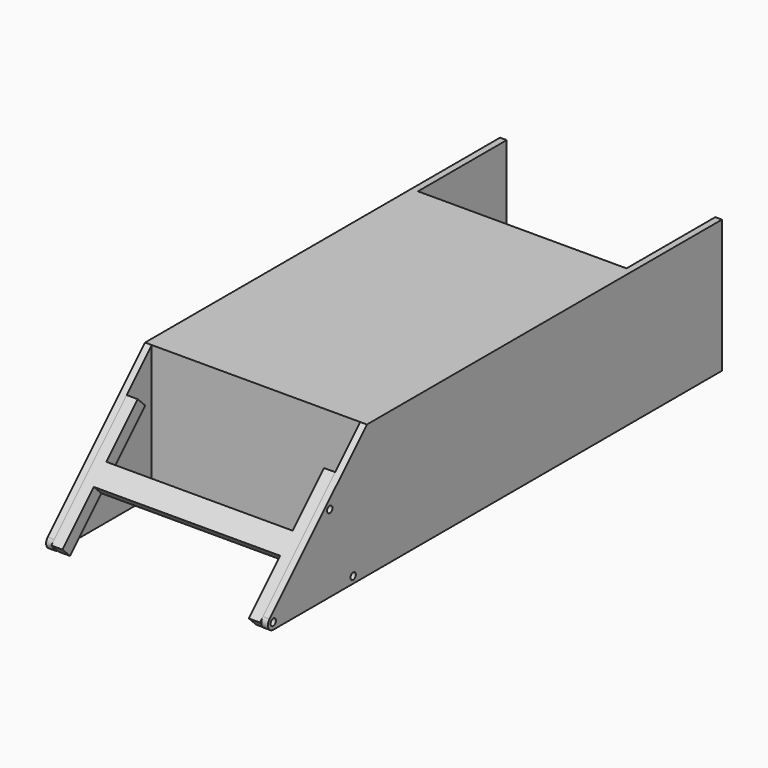
from build123d import *

# Parameters (mm, degrees)
F0_W     = 100
F0_H     = 60
F1_DEPTH = 75
F3_DEPTH = 3
F5_D     = 3
F6_W     = 84
F6_H     = 9.9999939085
F7_DEPTH = 6
F8_W     = 50
F8_H     = 60
F9_DEPTH = 3


with BuildPart() as f1:
    # F0 (on Front) → F1 (new body, symmetric)
    with BuildSketch(Plane.XZ):
        Rectangle(F0_W, F0_H)
    extrude(amount=F1_DEPTH, both=True)

    # F2 (on face) → F3 (join)
    with BuildSketch(Plane.YZ.offset(50)):
        with BuildLine():
            Line((-75, -30), (-75, 30))
            Line((-75, 30), (-129.8786796564, -24.8786796564))
            ThreePointArc((-129.8786796564, -24.8786796564), (-130.5289979104, -28.1480502971), (-127.7573593129, -30))
            Line((-127.7573593129, -30), (-75, -30))
        make_face()
    extrude(amount=-F3_DEPTH)

    # F4: F1 across plane


with BuildPart() as f1_1:
    add(f1.part)
    add(f1.part.mirror(Plane.YZ))

    # F5 (through all)
    with Locations(Plane.YZ.offset(50)):
        with Locations((-95.9375541595, 4.8198051534), (-127.7573593129, -27), (-82.7573593129, -27)):
            Hole(F5_D / 2)



with BuildPart() as f7:
    # F6 (on face) → F7 (new body)
    with BuildSketch(Plane(origin=(0, -52.5, 52.5), x_dir=(1, 0, 0), z_dir=(0, -0.7071067812, 0.7071067812))):
        Polygon((-42, -51.8028065562), (-47, -51.8028065562), (-47, -111.8028065562), (-42, -111.8028065562), (-42, -86.8028065562), (-42, -76.8028126477), align=None)
        with Locations((0, -81.802809602)):
            Rectangle(F6_W, F6_H)
        Polygon((42, -51.8028065562), (42, -76.8028126477), (42, -86.8028065562), (42, -111.8028065562), (47, -111.8028065562), (47, -51.8028065562), align=None)
    extrude(amount=-F7_DEPTH)


with BuildPart() as f9:
    # F8 (on face) → F9 (new body)
    with BuildSketch(Plane.YZ.offset(50)):
        with Locations((100, 0)):
            Rectangle(F8_W, F8_H)
    extrude(amount=-F9_DEPTH)


with BuildPart() as f1_2:
    add(f1_1.part)

    add(f9.part)  # F10 merges F9
    # F10: F9 across plane
    add(f9.part.mirror(Plane.YZ))


solid = Compound([f7.part, f1_2.part])
